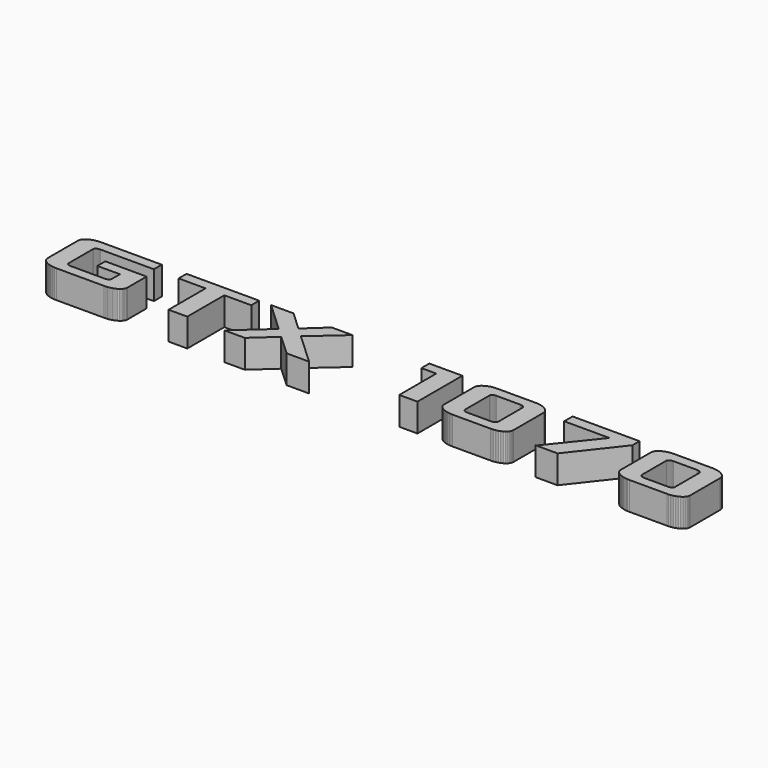
from build123d import *

# Parameters (mm, degrees)
F1_DEPTH = 5


with BuildPart() as f1:
    # F0 (on Top) → F1 (new body)
    with BuildSketch(Plane.XY):
        Polygon((-58.096621, 0.753259), (-58.096621, -5.919535), (-58.083661, -6.086197), (-58.044778, -6.246875), (-57.979972, -6.401569), (-57.889246, -6.55028), (-57.772597, -6.693006), (-57.630025, -6.829749), (-57.461533, -6.960508), (-57.267118, -7.085283), (-57.054201, -7.199454), (-56.830202, -7.298403), (-56.595121, -7.382129), (-56.348957, -7.450632), (-56.091712, -7.503912), (-55.823385, -7.541969), (-55.543976, -7.564803), (-55.253484, -7.572415), (-46.736327, -7.572415), (-46.44574, -7.564839), (-46.166044, -7.542113), (-45.897238, -7.504235), (-45.639322, -7.451206), (-45.392297, -7.383027), (-45.156163, -7.299695), (-44.93092, -7.201214), (-44.716567, -7.08758), (-44.520716, -6.963368), (-44.350978, -6.833148), (-44.207353, -6.696919), (-44.089843, -6.554683), (-43.998446, -6.40644), (-43.933162, -6.252189), (-43.893992, -6.091929), (-43.880935, -5.925663), (-43.880935, -1.690062), (-51.233876, -1.690062), (-51.233876, -3.454768), (-47.214269, -3.454768), (-47.214269, -5.315981), (-47.218206, -5.366676), (-47.230018, -5.415361), (-47.249705, -5.462034), (-47.277267, -5.506698), (-47.312703, -5.549351), (-47.356014, -5.589993), (-47.407199, -5.628625), (-47.46626, -5.665246), (-47.530874, -5.698636), (-47.598718, -5.727574), (-47.669794, -5.752059), (-47.744102, -5.772093), (-47.82164, -5.787675), (-47.90241, -5.798805), (-47.986411, -5.805483), (-48.073644, -5.807709), (-54.001952, -5.807709), (-54.089185, -5.805459), (-54.173186, -5.798709), (-54.253955, -5.78746), (-54.331494, -5.77171), (-54.405802, -5.751461), (-54.476878, -5.726712), (-54.544722, -5.697463), (-54.609336, -5.663714), (-54.668397, -5.626734), (-54.719582, -5.587791), (-54.762893, -5.546885), (-54.798329, -5.504017), (-54.825891, -5.459186), (-54.845578, -5.412393), (-54.85739, -5.363636), (-54.861327, -5.312917), (-54.861327, 0.160428), (-54.857402, 0.209819), (-54.845626, 0.257654), (-54.825999, 0.303933), (-54.798521, 0.348656), (-54.763193, 0.391823), (-54.720013, 0.433435), (-54.668983, 0.473491), (-54.610102, 0.511991), (-54.545668, 0.547355), (-54.477979, 0.578005), (-54.407035, 0.603939), (-54.332835, 0.625157), (-54.25538, 0.64166), (-54.17467, 0.653449), (-54.090704, 0.660522), (-54.003484, 0.662879), (-44.46917, 0.662879), (-44.46917, 2.427585), (-55.256548, 2.427585), (-55.546669, 2.419926), (-55.825731, 2.396948), (-56.093735, 2.358651), (-56.350681, 2.305036), (-56.596569, 2.236102), (-56.831399, 2.15185), (-57.05517, 2.052279), (-57.267884, 1.937389), (-57.462119, 1.811656), (-57.630457, 1.679558), (-57.772896, 1.541092), (-57.889437, 1.396258), (-57.98008, 1.245059), (-58.044825, 1.087492), (-58.083672, 0.923559), align=None)
        Polygon((-40.057406, 2.427585), (-40.057406, 0.662879), (-35.253484, 0.662879), (-35.253484, -7.572415), (-31.920151, -7.572415), (-31.920151, 0.662879), (-27.116229, 0.662879), (-27.116229, 2.427585), align=None)
        Polygon((-19.675972, -2.532586), (-25.327014, -7.572415), (-21.678117, -7.572415), (-17.929648, -4.162489), (-14.219477, -7.572415), (-10.227442, -7.572415), (-15.902994, -2.318126), (-10.520028, 2.427585), (-14.194967, 2.427585), (-17.624808, -0.724989), (-20.993374, 2.427585), (-24.997663, 2.427585), align=None)
        Polygon((3.177888, 2.427585), (3.177888, 0.662879), (5.824947, 0.662879), (5.824947, -7.572415), (9.060241, -7.572415), (9.060241, 2.427585), align=None)
        Polygon((28.687999, 2.427585), (28.687999, 0.56484), (36.733342, 0.56484), (30.287263, -7.474376), (30.043697, -7.572415), (34.011222, -7.572415), (40.615082, 0.863553), (40.615082, 2.427585), align=None)
        Polygon((12.491614, 0.753259), (12.491614, -5.919535), (12.504515, -6.089667), (12.543218, -6.253098), (12.607724, -6.409827), (12.698032, -6.559853), (12.814143, -6.703178), (12.956056, -6.839802), (13.123771, -6.969723), (13.317288, -7.092942), (13.529235, -7.205318), (13.752241, -7.302712), (13.986305, -7.385121), (14.231427, -7.452547), (14.487607, -7.504989), (14.754845, -7.542448), (15.033142, -7.564923), (15.322496, -7.572415), (22.038182, -7.572415), (22.324569, -7.564863), (22.600089, -7.542208), (22.864742, -7.50445), (23.118529, -7.451589), (23.361448, -7.383625), (23.593502, -7.300557), (23.814688, -7.202386), (24.025009, -7.089112), (24.21709, -6.965115), (24.38356, -6.834775), (24.52442, -6.698092), (24.639668, -6.555066), (24.729306, -6.405698), (24.793333, -6.249987), (24.83175, -6.087932), (24.844555, -5.919535), (24.844555, 0.753259), (24.831654, 0.923559), (24.79295, 1.087492), (24.728445, 1.245059), (24.638137, 1.396258), (24.522026, 1.541092), (24.380113, 1.679558), (24.212398, 1.811656), (24.018881, 1.937389), (23.807316, 2.052279), (23.58546, 2.15185), (23.353311, 2.236102), (23.110869, 2.305036), (22.858136, 2.358651), (22.595111, 2.396948), (22.321792, 2.419926), (22.038182, 2.427585), (15.322496, 2.427585), (15.033142, 2.419926), (14.754845, 2.396948), (14.487607, 2.358651), (14.231427, 2.305036), (13.986305, 2.236102), (13.752241, 2.15185), (13.529235, 2.052279), (13.317288, 1.937389), (13.123771, 1.811656), (12.956056, 1.679558), (12.814143, 1.541092), (12.698032, 1.396258), (12.607724, 1.245059), (12.543218, 1.087492), (12.504515, 0.923559), align=None)
        Polygon((15.730953, -5.363636), (15.726908, -5.312917), (15.726908, 0.160428), (15.730953, 0.209819), (15.743088, 0.257654), (15.763314, 0.303933), (15.791629, 0.348656), (15.828035, 0.391823), (15.872531, 0.433435), (15.925116, 0.473491), (15.985793, 0.511991), (16.051879, 0.547355), (16.120692, 0.578005), (16.192235, 0.603939), (16.266507, 0.625157), (16.343507, 0.64166), (16.423235, 0.653449), (16.505693, 0.660522), (16.590879, 0.662879), (20.759077, 0.662879), (20.846584, 0.660522), (20.930646, 0.653449), (21.01126, 0.64166), (21.088428, 0.625157), (21.162148, 0.603939), (21.232422, 0.578005), (21.29925, 0.547355), (21.362631, 0.511991), (21.420435, 0.473491), (21.470531, 0.433435), (21.512921, 0.391823), (21.547603, 0.348656), (21.574579, 0.303933), (21.593847, 0.257654), (21.605407, 0.209819), (21.609261, 0.160428), (21.609261, -5.312917), (21.605407, -5.363636), (21.593847, -5.412393), (21.574579, -5.459186), (21.547603, -5.504017), (21.512921, -5.546885), (21.470531, -5.587791), (21.420435, -5.626734), (21.362631, -5.663714), (21.29925, -5.697463), (21.232422, -5.726712), (21.162148, -5.751461), (21.088428, -5.77171), (21.01126, -5.78746), (20.930646, -5.798709), (20.846584, -5.805459), (20.759077, -5.807709), (16.590879, -5.807709), (16.505693, -5.805459), (16.423235, -5.798709), (16.343507, -5.78746), (16.266507, -5.77171), (16.192235, -5.751461), (16.120692, -5.726712), (16.051879, -5.697463), (15.985793, -5.663714), (15.925116, -5.626734), (15.872531, -5.587791), (15.828035, -5.546885), (15.791629, -5.504017), (15.763314, -5.459186), (15.743088, -5.412393), align=None, mode=Mode.SUBTRACT)
        Polygon((43.962202, 0.753259), (43.962202, -5.919535), (43.975103, -6.089667), (44.013807, -6.253098), (44.078313, -6.409827), (44.16862, -6.559853), (44.284731, -6.703178), (44.426644, -6.839802), (44.594359, -6.969723), (44.787876, -7.092942), (44.999824, -7.205318), (45.22283, -7.302712), (45.456893, -7.385121), (45.702015, -7.452547), (45.958196, -7.504989), (46.225433, -7.542448), (46.50373, -7.564923), (46.793084, -7.572415), (53.508771, -7.572415), (53.795157, -7.564863), (54.070677, -7.542208), (54.33533, -7.50445), (54.589117, -7.451589), (54.832037, -7.383625), (55.06409, -7.300557), (55.285277, -7.202386), (55.495597, -7.089112), (55.687678, -6.965115), (55.854148, -6.834775), (55.995008, -6.698092), (56.110256, -6.555066), (56.199894, -6.405698), (56.263922, -6.249987), (56.302338, -6.087932), (56.315143, -5.919535), (56.315143, 0.753259), (56.302242, 0.923559), (56.263539, 1.087492), (56.199033, 1.245059), (56.108725, 1.396258), (55.992614, 1.541092), (55.850701, 1.679558), (55.682986, 1.811656), (55.489469, 1.937389), (55.277905, 2.052279), (55.056048, 2.15185), (54.823899, 2.236102), (54.581458, 2.305036), (54.328724, 2.358651), (54.065699, 2.396948), (53.79238, 2.419926), (53.508771, 2.427585), (46.793084, 2.427585), (46.50373, 2.419926), (46.225433, 2.396948), (45.958196, 2.358651), (45.702015, 2.305036), (45.456893, 2.236102), (45.22283, 2.15185), (44.999824, 2.052279), (44.787876, 1.937389), (44.594359, 1.811656), (44.426644, 1.679558), (44.284731, 1.541092), (44.16862, 1.396258), (44.078313, 1.245059), (44.013807, 1.087492), (43.975103, 0.923559), align=None)
        Polygon((47.201541, -5.363636), (47.197496, -5.312917), (47.197496, 0.160428), (47.201541, 0.209819), (47.213677, 0.257654), (47.233902, 0.303933), (47.262217, 0.348656), (47.298623, 0.391823), (47.343119, 0.433435), (47.395705, 0.473491), (47.456381, 0.511991), (47.522467, 0.547355), (47.59128, 0.578005), (47.662824, 0.603939), (47.737095, 0.625157), (47.814095, 0.64166), (47.893824, 0.653449), (47.976281, 0.660522), (48.061467, 0.662879), (52.229665, 0.662879), (52.317173, 0.660522), (52.401234, 0.653449), (52.481848, 0.64166), (52.559016, 0.625157), (52.632737, 0.603939), (52.703011, 0.578005), (52.769839, 0.547355), (52.833219, 0.511991), (52.891023, 0.473491), (52.94112, 0.433435), (52.983509, 0.391823), (53.018192, 0.348656), (53.045167, 0.303933), (53.064435, 0.257654), (53.075996, 0.209819), (53.079849, 0.160428), (53.079849, -5.312917), (53.075996, -5.363636), (53.064435, -5.412393), (53.045167, -5.459186), (53.018192, -5.504017), (52.983509, -5.546885), (52.94112, -5.587791), (52.891023, -5.626734), (52.833219, -5.663714), (52.769839, -5.697463), (52.703011, -5.726712), (52.632737, -5.751461), (52.559016, -5.77171), (52.481848, -5.78746), (52.401234, -5.798709), (52.317173, -5.805459), (52.229665, -5.807709), (48.061467, -5.807709), (47.976281, -5.805459), (47.893824, -5.798709), (47.814095, -5.78746), (47.737095, -5.77171), (47.662824, -5.751461), (47.59128, -5.726712), (47.522467, -5.697463), (47.456381, -5.663714), (47.395705, -5.626734), (47.343119, -5.587791), (47.298623, -5.546885), (47.262217, -5.504017), (47.233902, -5.459186), (47.213677, -5.412393), align=None, mode=Mode.SUBTRACT)
    extrude(amount=F1_DEPTH)


solid = f1.part
